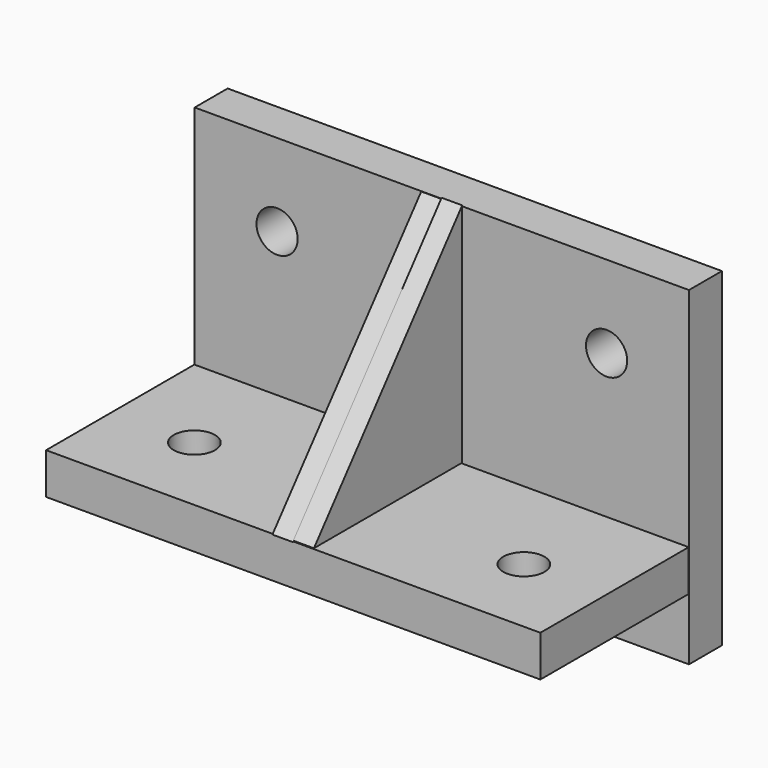
from build123d import *

# Parameters (mm, degrees)
F0_W     = 120
F0_H     = 80
F0_R     = 5
F1_DEPTH = 10
F2_W     = 120
F2_H     = 10
F3_DEPTH = 55
F4_R     = 5
F5_DEPTH = 25
F7_DEPTH = 5
F9_DEPTH = 5


with BuildPart() as f1:
    # F0 (on Front) → F1 (new body)
    with BuildSketch(Plane.XZ):
        Rectangle(F0_W, F0_H)
        with Locations((-40, 20)):
            Circle(F0_R, mode=Mode.SUBTRACT)
        with Locations((40, 20)):
            Circle(F0_R, mode=Mode.SUBTRACT)
    extrude(amount=F1_DEPTH)

    # F2 (on Front) → F3 (join)
    with BuildSketch(Plane.XZ):
        with Locations((-0.077325, -19.974228)):
            Rectangle(F2_W, F2_H)
    extrude(amount=F3_DEPTH)

    # F4 (on face) → F5 (cut)
    with BuildSketch(Plane.XY.offset(-14.974228)):
        with Locations((-40.077325, -35)):
            Circle(F4_R)
        with Locations((39.922675, -35)):
            Circle(F4_R)
    extrude(amount=-F5_DEPTH, mode=Mode.SUBTRACT)

    # F6 (on Right) → F7 (join)
    with BuildSketch(Plane.YZ):
        Polygon((-10.15516, -15.042505), (-9.974833, 39.9572), (-55.15516, -15.042505), align=None)
    extrude(amount=-F7_DEPTH)

    # F8 (on Right) → F9 (join)
    with BuildSketch(Plane.YZ):
        Polygon((-10.064434, -14.750807), (-10.064434, 40.249193), (-55.064434, -14.750807), align=None)
    extrude(amount=F9_DEPTH)


solid = f1.part
